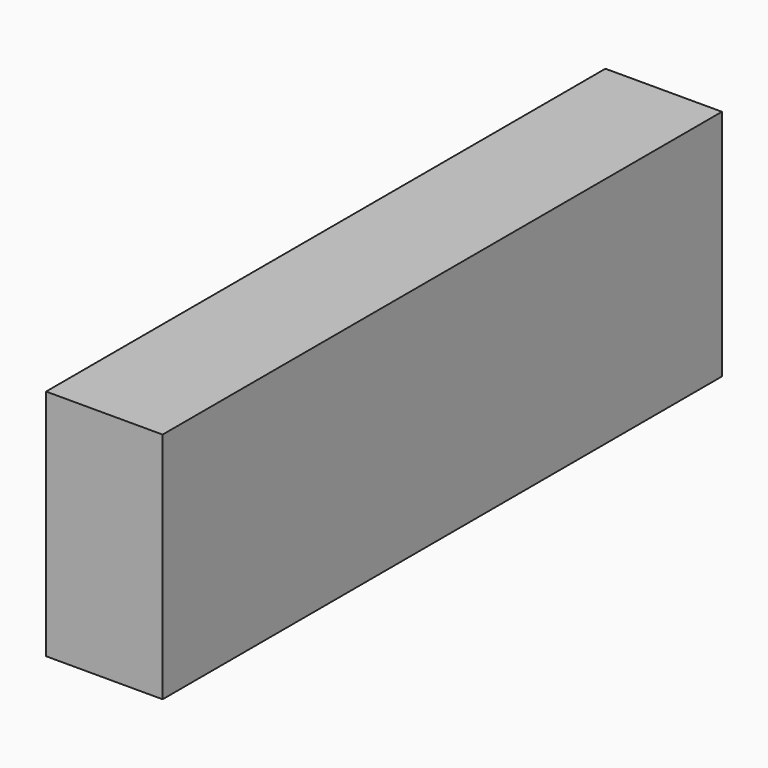
from build123d import *

# Parameters (mm, degrees)
F0_W     = 100
F0_H     = 200
F1_DEPTH = 600
F2_R     = 10
F3_DEPTH = 100


with BuildPart() as f1:
    # F0 (on Front) → F1 (new body)
    with BuildSketch(Plane.XZ):
        with Locations((-50, 100)):
            Rectangle(F0_W, F0_H)
    extrude(amount=F1_DEPTH)

    # F2 (on face) → F3 (cut)
    with BuildSketch(Plane(origin=(0, 0, 0), x_dir=(1, 0, 0), z_dir=(0, 0, -1))):
        with Locations((-50, 430)):
            Circle(F2_R)
        with Locations((-50, 170)):
            Circle(F2_R)
        with Locations((-50, 300)):
            Circle(F2_R)
    extrude(amount=-F3_DEPTH, mode=Mode.SUBTRACT)


solid = f1.part
